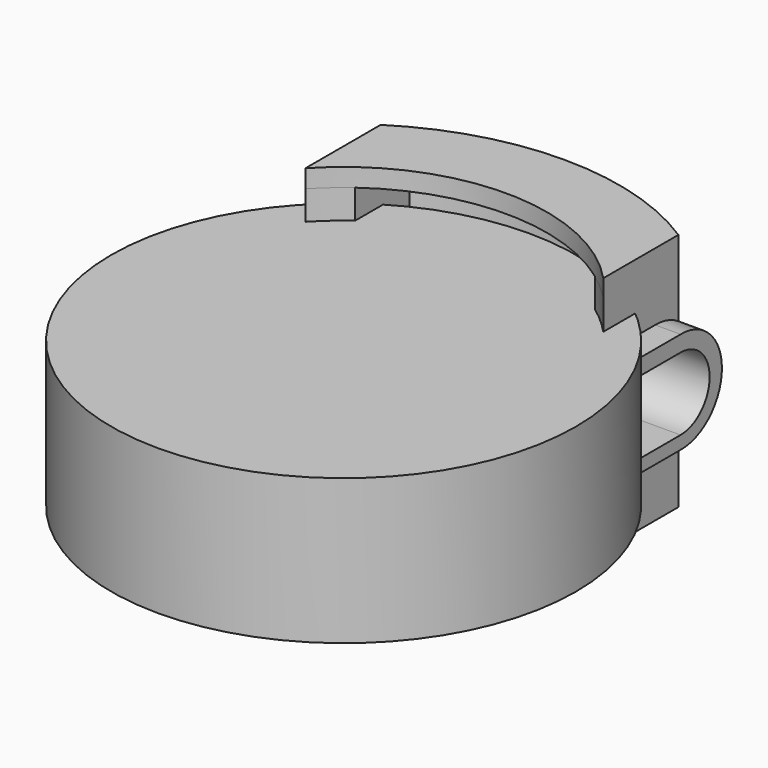
from build123d import *

# Parameters (mm, degrees)
CYLINDER002_R              = 14
CYLINDER002_DEPTH          = 10
EXTRUDE004_DEPTH           = 5
EXTRUDE004_DEPTH_BACK      = 1
EXTRUDE004_PLACEMENT_ANGLE = 270
EXTRUDE003_DEPTH           = 5
EXTRUDE003_DEPTH_BACK      = 1
EXTRUDE003_PLACEMENT_ANGLE = 270
EXTRUDE_DEPTH              = 14
EXTRUDE_DEPTH_BACK         = 0.75
EXTRUDE005_DEPTH           = 0.5
EXTRUDE002_DEPTH           = 1.25
CYLINDER003_R              = 16
CYLINDER003_DEPTH          = 10


with BuildPart() as cylinder002:
    # Cylinder002 → Cylinder002 (new body)
    with BuildSketch(Plane.XY.offset(2)):
        Circle(CYLINDER002_R)
    extrude(amount=CYLINDER002_DEPTH)


with BuildPart() as extrude004:
    # Sketch003 → Extrude004 (new body, two sides)
    with BuildSketch(Plane.YZ) as extrude004_sk:
        with BuildLine():
            ThreePointArc((2.5, 0), (7e-06, 2.5), (-2.5, 1.3e-05))
            Line((-2.5, 1.3e-05), (-2.5, -6.999987))
            Line((-2.5, -6.999987), (2.5, -6.999987))
            Line((2.5, -6.999987), (2.5, 0))
        make_face()
    extrude(amount=EXTRUDE004_DEPTH)
    extrude(extrude004_sk.sketch, amount=-EXTRUDE004_DEPTH_BACK)


with BuildPart() as extrude004_1:
    # Extrude004 placement: moved
    add(extrude004.part.moved(Location((7, 14, 7))).rotate(Axis((7, 14, 7), (1, 0, 0)), EXTRUDE004_PLACEMENT_ANGLE))


with BuildPart() as extrude003:
    # Sketch002 → Extrude003 (new body, two sides)
    with BuildSketch(Plane.YZ) as extrude003_sk:
        with BuildLine():
            ThreePointArc((3.398672, 0.056974), (-0.129816, 3.556876), (-3.600864, 0))
            Line((-3.600864, 0), (-3.600864, -8))
            Line((-3.600864, -8), (3.398672, -8))
            Line((3.398672, 0.056974), (3.398672, -8))
        make_face()
    extrude(amount=EXTRUDE003_DEPTH)
    extrude(extrude003_sk.sketch, amount=-EXTRUDE003_DEPTH_BACK)


with BuildPart() as extrude003_1:
    # Extrude003 placement: moved
    add(extrude003.part.moved(Location((7, 14, 7))).rotate(Axis((7, 14, 7), (1, 0, 0)), EXTRUDE003_PLACEMENT_ANGLE))


with BuildPart() as extrude_body:
    # Sketch001 → Extrude (new body, two sides)
    with BuildSketch(Plane.XY) as extrude_sk:
        with BuildLine():
            ThreePointArc((10.25, 15.998047), (0, 19), (-10.25, 15.998047))
            Line((-10.25, 9.536116), (-10.25, 15.998047))
            ThreePointArc((-8.25, 11.310946), (-9.29247, 10.471389), (-10.25, 9.536116))
            Line((-8.25, 15.998047), (-8.25, 11.310946))
            ThreePointArc((8.25, 15.998047), (0, 18), (-8.25, 15.998047))
            Line((8.25, 15.998047), (8.25, 11.310946))
            ThreePointArc((10.25, 9.536116), (9.29247, 10.471389), (8.25, 11.310946))
            Line((10.25, 15.998047), (10.25, 9.536116))
        make_face()
    extrude(amount=EXTRUDE_DEPTH)
    extrude(extrude_sk.sketch, amount=-EXTRUDE_DEPTH_BACK)


with BuildPart() as extrude005:
    # Sketch → Extrude005 (new body)
    with BuildSketch(Plane.XY):
        with BuildLine():
            ThreePointArc((10.25, 15.998047), (0, 19), (-10.25, 15.998047))
            Line((-10.25, 9.536116), (-10.25, 15.998047))
            ThreePointArc((10.25, 9.536116), (0, 14), (-10.25, 9.536116))
            Line((10.25, 15.998047), (10.25, 9.536116))
        make_face()
    extrude(amount=EXTRUDE005_DEPTH)


with BuildPart() as extrude005_1:
    # Extrude005 placement: moved
    add(extrude005.part.moved(Location((0, 0, -1.25))))


with BuildPart() as cut001:
    # Sketch → Extrude002 (new body)
    with BuildSketch(Plane.XY):
        with BuildLine():
            ThreePointArc((10.25, 15.998047), (0, 19), (-10.25, 15.998047))
            Line((-10.25, 9.536116), (-10.25, 15.998047))
            ThreePointArc((10.25, 9.536116), (0, 14), (-10.25, 9.536116))
            Line((10.25, 15.998047), (10.25, 9.536116))
        make_face()
    extrude(amount=EXTRUDE002_DEPTH)


with BuildPart() as cut001_1:
    # Extrude002 placement: moved
    add(cut001.part.moved(Location((0, 0, 14))))

    # Fusion: union Extrude body, Extrude005
    add(extrude_body.part)
    add(extrude005_1.part)

    # Fusion001: union Extrude003
    add(extrude003_1.part)

    # Cut: cut Extrude004
    add(extrude004_1.part, mode=Mode.SUBTRACT)

    # Cut001: cut Cylinder002
    add(cylinder002.part, mode=Mode.SUBTRACT)


with BuildPart() as cylinder003:
    # Cylinder003 → Cylinder003 (new body)
    with BuildSketch(Plane.XY.offset(2)):
        Circle(CYLINDER003_R)
    extrude(amount=CYLINDER003_DEPTH)


solid = Compound([cut001_1.part, cylinder003.part])
